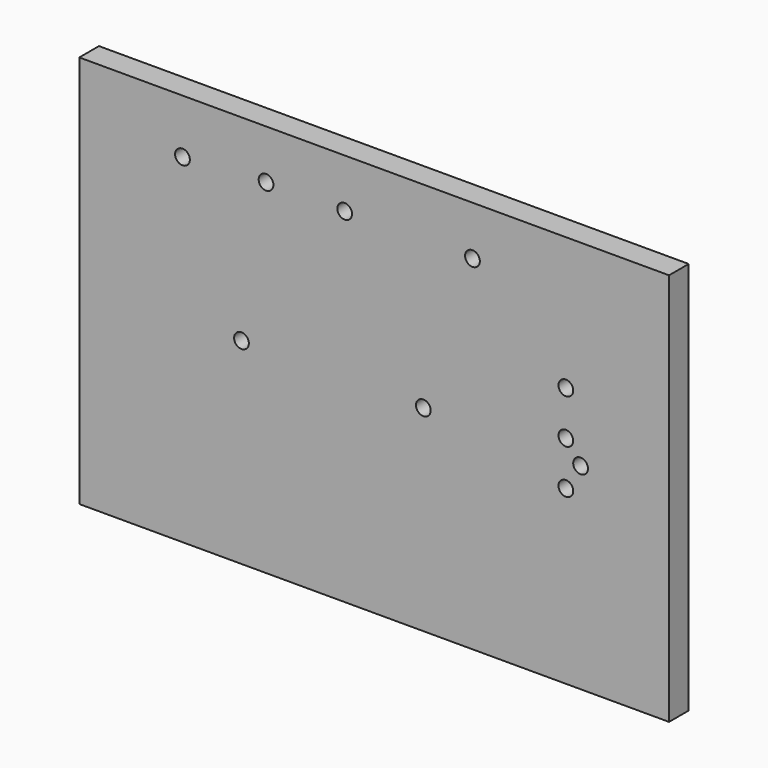
from build123d import *

# Parameters (mm, degrees)
F0_W     = 120
F0_H     = 80
F0_R     = 1.5
F1_DEPTH = 5


with BuildPart() as f1:
    # F0 (on Front) → F1 (new body)
    with BuildSketch(Plane.XZ):
        with Locations((-10, 0)):
            Rectangle(F0_W, F0_H)
        with Locations((29, -5)):
            Circle(F0_R, mode=Mode.SUBTRACT)
        with Locations((-37, 0)):
            Circle(F0_R, mode=Mode.SUBTRACT)
        with Locations((-49, 29)):
            Circle(F0_R, mode=Mode.SUBTRACT)
        with Locations((-32, 30)):
            Circle(F0_R, mode=Mode.SUBTRACT)
        with Locations((-16, 30)):
            Circle(F0_R, mode=Mode.SUBTRACT)
        Circle(F0_R, mode=Mode.SUBTRACT)
        with Locations((32, 0)):
            Circle(F0_R, mode=Mode.SUBTRACT)
        with Locations((29, 4)):
            Circle(F0_R, mode=Mode.SUBTRACT)
        with Locations((29, 13)):
            Circle(F0_R, mode=Mode.SUBTRACT)
        with Locations((10, 30)):
            Circle(F0_R, mode=Mode.SUBTRACT)
    extrude(amount=F1_DEPTH)


solid = f1.part
